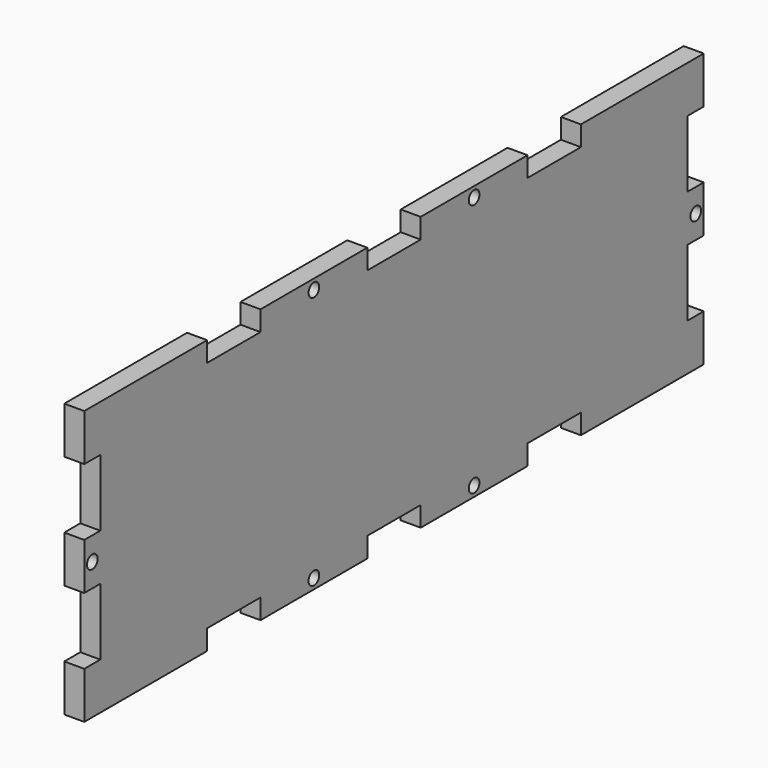
from build123d import *

# Parameters (mm, degrees)
F0_R     = 1
F1_DEPTH = 1.5


with BuildPart() as f1:
    # F0 (on Right) → F1 (new body, symmetric)
    with BuildSketch(Plane.YZ):
        with BuildLine():
            ThreePointArc((55.5, 0), (56.5, 1), (57.5, 0))
            Line((57.5, 0), (58, 0))
            Line((58, 0), (58, 3.5))
            Line((58, 3.5), (55, 3.5))
            Line((55, 3.5), (55, 13.5))
            Line((55, 13.5), (58, 13.5))
            Line((58, 13.5), (58, 20.5))
            Line((58, 20.5), (35, 20.5))
            Line((35, 20.5), (35, 17.5))
            Line((35, 17.5), (25, 17.5))
            Line((25, 17.5), (25, 20.5))
            Line((25, 20.5), (5, 20.5))
            Line((5, 20.5), (5, 17.5))
            Line((5, 17.5), (0, 17.5))
            Line((0, 17.5), (0, 0))
            Line((0, 0), (55.5, 0))
        make_face()
        with Locations((15, 19)):
            Circle(F0_R, mode=Mode.SUBTRACT)
        with BuildLine():
            Line((58, 0), (57.5, 0))
            ThreePointArc((57.5, 0), (56.5, -1), (55.5, 0))
            Line((55.5, 0), (0, 0))
            Line((0, 0), (0, -17.5))
            Line((0, -17.5), (5, -17.5))
            Line((5, -17.5), (5, -20.5))
            Line((5, -20.5), (25, -20.5))
            Line((25, -20.5), (25, -17.5))
            Line((25, -17.5), (35, -17.5))
            Line((35, -17.5), (35, -20.5))
            Line((35, -20.5), (58, -20.5))
            Line((58, -20.5), (58, -13.5))
            Line((58, -13.5), (55, -13.5))
            Line((55, -13.5), (55, -3.5))
            Line((55, -3.5), (58, -3.5))
            Line((58, -3.5), (58, 0))
        make_face()
        with Locations((15, -19)):
            Circle(F0_R, mode=Mode.SUBTRACT)
        with BuildLine():
            Line((-55.5, 0), (0, 0))
            Line((0, 0), (0, 17.5))
            Line((0, 17.5), (-5, 17.5))
            Line((-5, 17.5), (-5, 20.5))
            Line((-5, 20.5), (-25, 20.5))
            Line((-25, 20.5), (-25, 17.5))
            Line((-25, 17.5), (-35, 17.5))
            Line((-35, 17.5), (-35, 20.5))
            Line((-35, 20.5), (-58, 20.5))
            Line((-58, 20.5), (-58, 13.5))
            Line((-58, 13.5), (-55, 13.5))
            Line((-55, 13.5), (-55, 3.5))
            Line((-55, 3.5), (-58, 3.5))
            Line((-58, 3.5), (-58, 0))
            Line((-58, 0), (-57.5, 0))
            ThreePointArc((-57.5, 0), (-56.5, 1), (-55.5, 0))
        make_face()
        with Locations((-15, 19)):
            Circle(F0_R, mode=Mode.SUBTRACT)
        with BuildLine():
            Line((0, -17.5), (0, 0))
            Line((0, 0), (-55.5, 0))
            ThreePointArc((-55.5, 0), (-56.5, -1), (-57.5, 0))
            Line((-57.5, 0), (-58, 0))
            Line((-58, 0), (-58, -3.5))
            Line((-58, -3.5), (-55, -3.5))
            Line((-55, -3.5), (-55, -13.5))
            Line((-55, -13.5), (-58, -13.5))
            Line((-58, -13.5), (-58, -20.5))
            Line((-58, -20.5), (-35, -20.5))
            Line((-35, -20.5), (-35, -17.5))
            Line((-35, -17.5), (-25, -17.5))
            Line((-25, -17.5), (-25, -20.5))
            Line((-25, -20.5), (-5, -20.5))
            Line((-5, -20.5), (-5, -17.5))
            Line((-5, -17.5), (0, -17.5))
        make_face()
        with Locations((-15, -19)):
            Circle(F0_R, mode=Mode.SUBTRACT)
    extrude(amount=F1_DEPTH, both=True)


solid = f1.part
